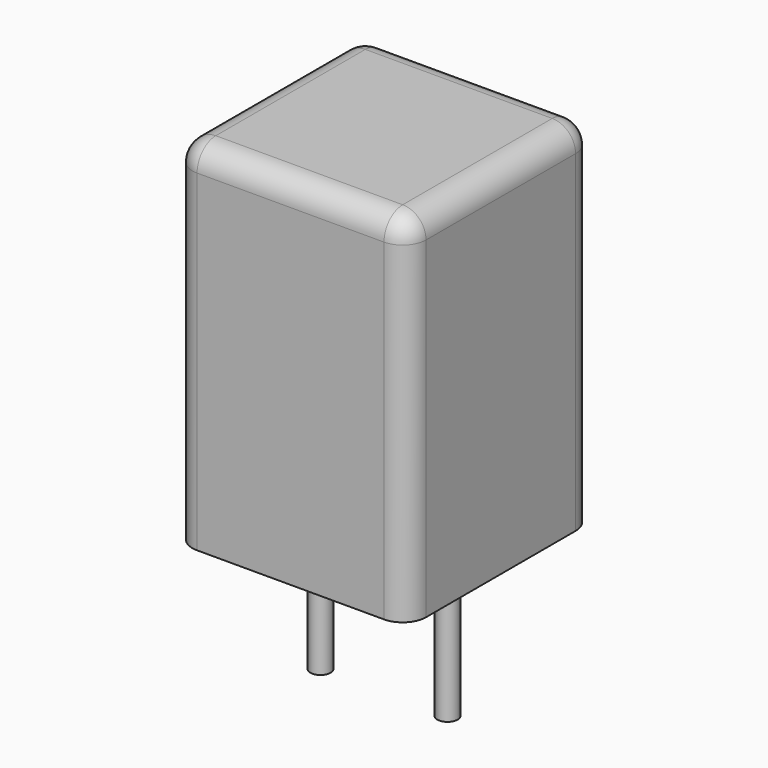
from build123d import *

# Parameters (mm, degrees)
SKETCH_W     = 4.6
SKETCH_H     = 4.6
PAD_DEPTH    = 7
FILLET_R     = 0.46
SKETCH001_R  = 0.2
PAD001_DEPTH = 3.2


with BuildPart() as fillet_body:
    # Sketch → Pad (new body)
    with BuildSketch(Plane.XY.offset(0.1)):
        with Locations((1.25, 0)):
            Rectangle(SKETCH_W, SKETCH_H)
    extrude(amount=PAD_DEPTH)

    # Fillet
    fillet_edges = [fillet_body.edges().sort_by_distance(p)[0] for p in [
        (-1.05, 0, 7.1),
        (-1.05, -2.3, 3.6),
        (1.25, -2.3, 7.1),
        (3.55, -2.3, 3.6),
        (3.55, 0, 7.1),
        (3.55, 2.3, 3.6),
        (1.25, 2.3, 7.1),
        (-1.05, 2.3, 3.6),
    ]]
    fillet(fillet_edges, radius=FILLET_R)


with BuildPart() as pad001:
    # Sketch001 → Pad001 (new body)
    with BuildSketch(Plane.XY.offset(0.5)):
        Circle(SKETCH001_R)
        with Locations((2.5, 0)):
            Circle(SKETCH001_R)
    extrude(amount=-PAD001_DEPTH)


solid = Compound([fillet_body.part, pad001.part])
